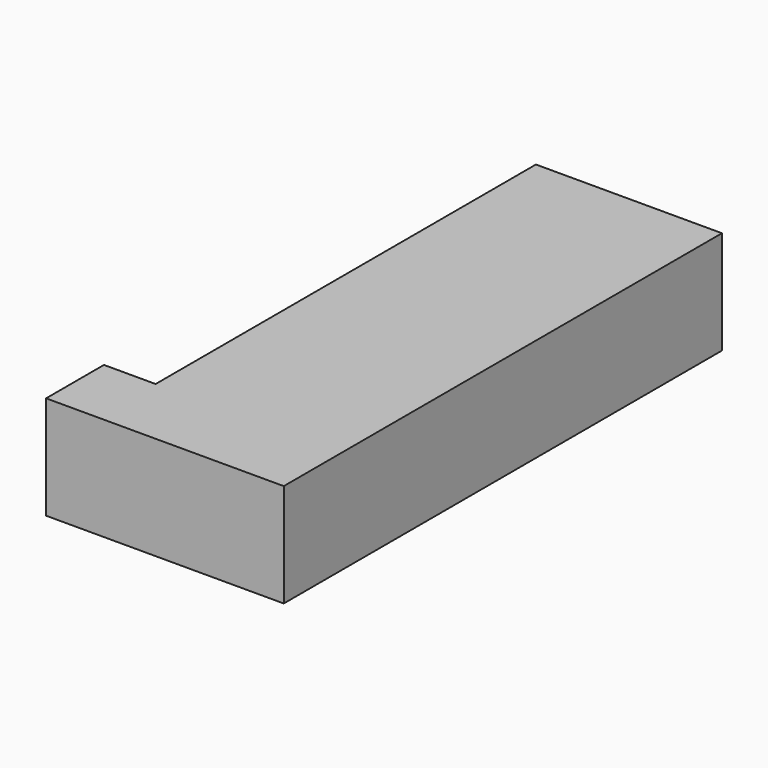
from build123d import *

# Parameters (mm, degrees)
SKETCH_W         = 18
SKETCH_H         = 53
EXTRUDE_DEPTH    = 10
SKETCH001_W      = 7
SKETCH001_H      = 10
EXTRUDE001_DEPTH = 5


with BuildPart() as body:
    # Sketch → Extrude (new body)
    with BuildSketch(Plane.XY):
        Rectangle(SKETCH_W, SKETCH_H)
    extrude(amount=EXTRUDE_DEPTH)


with BuildPart() as battery:
    # Sketch001 (on Face4 of Extrude) → Extrude001 (new body)
    with BuildSketch(Plane(origin=(-9, 0, 0), x_dir=(0, -1, 0), z_dir=(-1, 0, 0))):
        with Locations((23, 5)):
            Rectangle(SKETCH001_W, SKETCH001_H)
    extrude(amount=EXTRUDE001_DEPTH)

    # Fusion: union BOdy
    add(body.part)


solid = battery.part
